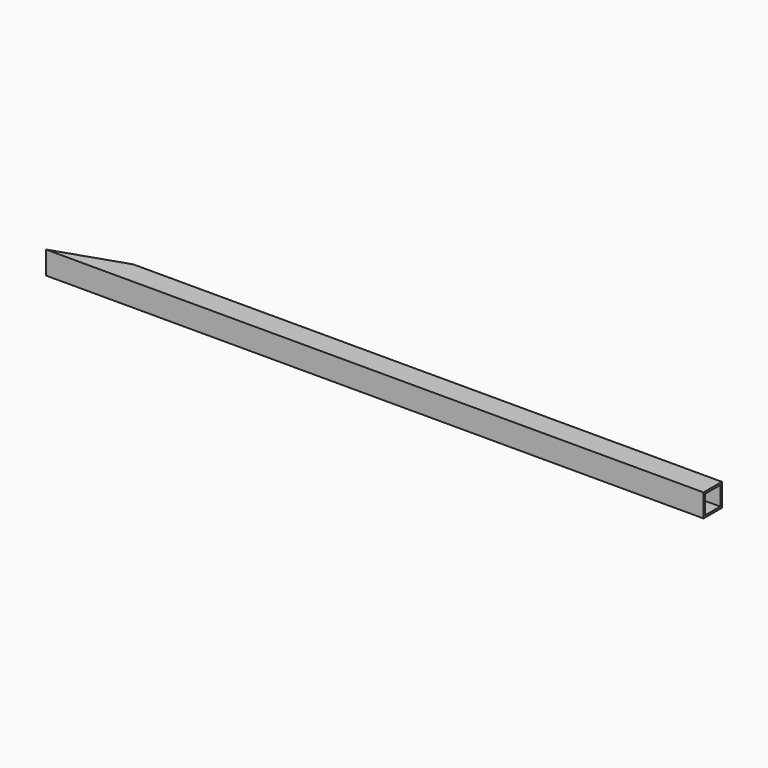
from build123d import *

# Parameters (mm, degrees)
SKETCH_W     = 31.75
SKETCH_H     = 31.75
SKETCH_W_2   = 26.2128
SKETCH_H_2   = 26.2128
PAD_DEPTH    = 909.258
POCKET_DEPTH = 31.75


with BuildPart() as part:
    # Sketch → Pad (new body)
    with BuildSketch(Plane.YZ):
        Rectangle(SKETCH_W, SKETCH_H)
        Rectangle(SKETCH_W_2, SKETCH_H_2, mode=Mode.SUBTRACT)
    extrude(amount=-PAD_DEPTH)

    # Sketch001 → Pocket (cut)
    with BuildSketch(Plane(origin=(0, 0, 15.875), x_dir=(0, -1, 0), z_dir=(0, 0, 1))):
        Polygon((15.875, -909.258), (-15.875, -909.258), (-15.875, -814.007729), align=None)
    extrude(amount=-POCKET_DEPTH, mode=Mode.SUBTRACT)


solid = part.part
